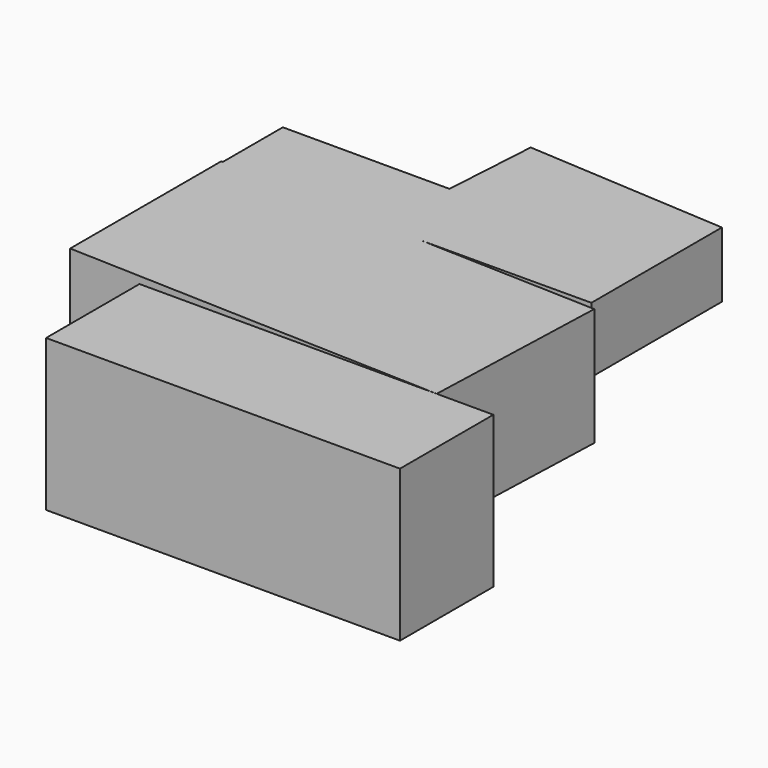
from build123d import *

# Parameters (mm, degrees)
F0_W     = 76.988034
F0_H     = 32.953762
F1_DEPTH = 25.4
F3_DEPTH = 25.654
F5_DEPTH = 14.224


with BuildPart() as f1:
    # F0 (on Front) → F1 (new body)
    with BuildSketch(Plane.XZ):
        with Locations((38.494017, -16.476881)):
            Rectangle(F0_W, F0_H)
    extrude(amount=F1_DEPTH)


with BuildPart() as f3:
    # F2 (on Top) → F3 (new body)
    with BuildSketch(Plane.XY):
        Polygon((-17.359633, 43.965994), (-17.359633, 12.949505), (-17.359633, 2.847992), (64.658187, 0), (66.084251, 41.068484), align=None)
    extrude(amount=-F3_DEPTH)

    # F4 (on Top) → F5 (join)
    with BuildSketch(Plane.XY):
        Polygon((-17.004775, 42.208083), (64.26324, 42.562939), (64.26324, 78.059629), (20.51433, 80.752961), (19.251338, 60.237666), (-17.004775, 60.237666), align=None)
    extrude(amount=-F5_DEPTH)


solid = Compound([f1.part, f3.part])
